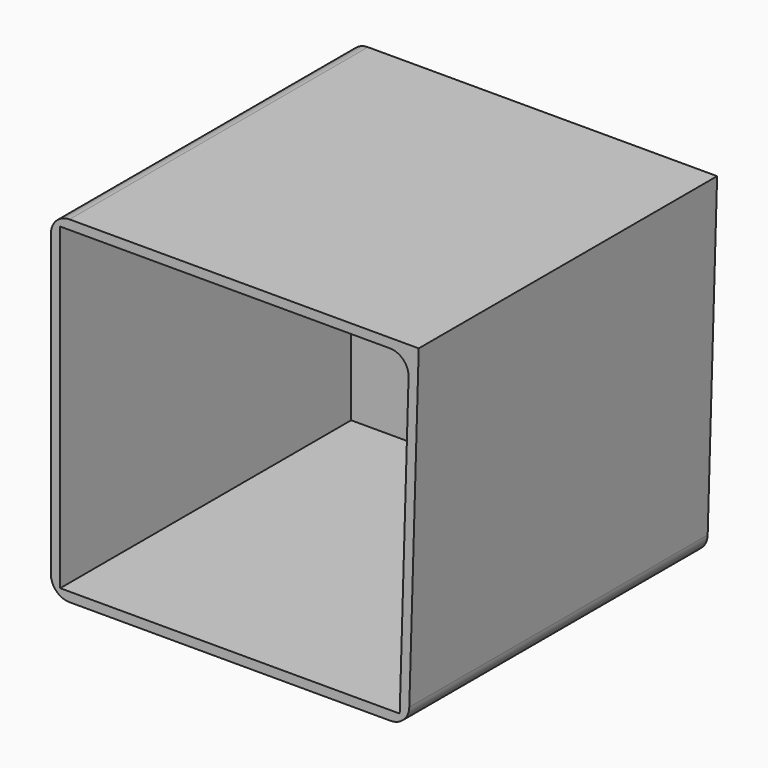
from build123d import *

# Parameters (mm, degrees)
F1_DEPTH = 100
F2_T     = -2.5
F3_R     = 5


with BuildPart() as f1:
    # F0 (on Front) → F1 (new body)
    with BuildSketch(Plane.XZ):
        Polygon((47.3136231303, -35.2433100343), (49.9879084527, 55.1212131977), (-48.6377365887, 55.1212131977), (-48.6377365887, -35.2433100343), align=None)
    extrude(amount=F1_DEPTH)

    # F2
    f2_openings = [f1.faces().sort_by_distance(p)[0] for p in [
        (0.009578, -100, 10.145948),
    ]]
    offset(amount=F2_T, openings=f2_openings)

    # F3
    f3_edges = [f1.edges().sort_by_distance(p)[0] for p in [
        (-48.637737, -50, 55.121213),
        (47.412828, -51.25, 52.621213),
        (-48.637737, -50, -35.24331),
        (47.313623, -50, -35.24331),
    ]]
    fillet(f3_edges, radius=F3_R)


solid = f1.part
